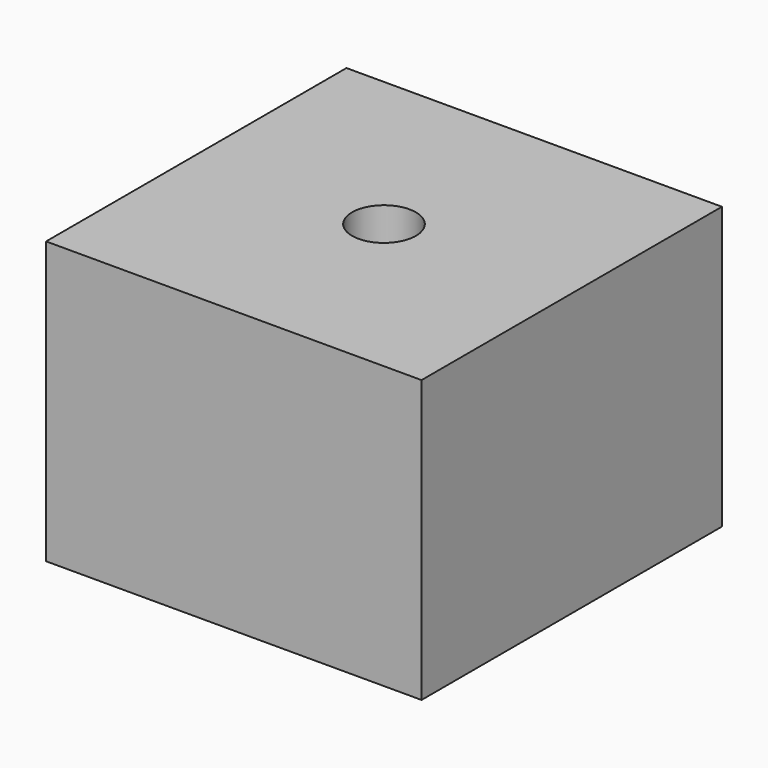
from build123d import *

# Parameters (mm, degrees)
CYLINDER052_R               = 1.7
CYLINDER052_DEPTH           = 80
CYLINDER052_PITCH_ANGLE     = 90
BOX013_W                    = 15
BOX013_H                    = 20
BOX013_DEPTH                = 20
CUT010035003035_PITCH_ANGLE = 90


with BuildPart() as taladro_tornillo012:
    # Cylinder052 → Cylinder052 (new body)
    with BuildSketch(Plane.XY):
        Circle(CYLINDER052_R)
    extrude(amount=CYLINDER052_DEPTH)


with BuildPart() as taladro_tornillo012_1:
    # Cylinder052 pitch: moved
    add(taladro_tornillo012.part.rotate(Axis((0, 0, 0), (0, 1, 0)), CYLINDER052_PITCH_ANGLE))


with BuildPart() as taladro_tornillo012_2:
    # Cylinder052 placement: moved
    add(taladro_tornillo012_1.part.moved(Location((-20, 10, 10))))


with BuildPart() as cut010035003035:
    # Box013 → Box013 (new body)
    with BuildSketch(Plane.XY):
        with Locations((7.5, 10)):
            Rectangle(BOX013_W, BOX013_H)
    extrude(amount=BOX013_DEPTH)

    # Cut010035003035: cut Taladro tornillo012
    add(taladro_tornillo012_2.part, mode=Mode.SUBTRACT)


with BuildPart() as cut010035003035_1:
    # Cut010035003035 pitch: moved
    add(cut010035003035.part.rotate(Axis((0, 0, 0), (0, 1, 0)), CUT010035003035_PITCH_ANGLE))


with BuildPart() as cut010035003035_2:
    # Cut010035003035 placement: moved
    add(cut010035003035_1.part.moved(Location((122, 91, 133))))


solid = cut010035003035_2.part
